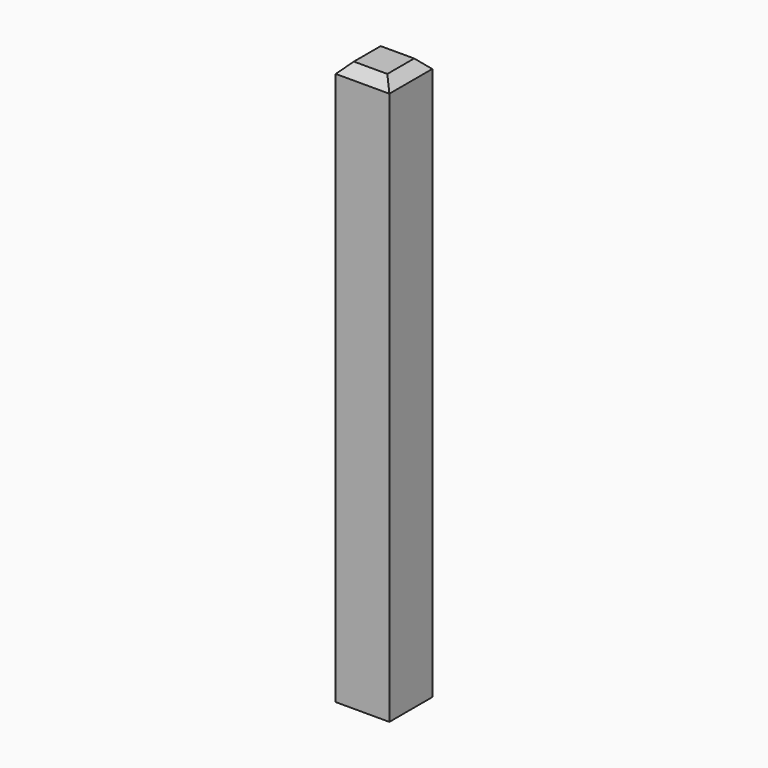
from build123d import *

# Parameters (mm, degrees)
F0_W     = 101.6
F0_H     = 101.6
F1_DEPTH = 1066.8
F2_SIZE  = 19.05


with BuildPart() as f1:
    # F0 (on Top) → F1 (new body)
    with BuildSketch(Plane.XY):
        Rectangle(F0_W, F0_H)
    extrude(amount=F1_DEPTH)

    # F2
    f2_edges = [f1.edges().sort_by_distance(p)[0] for p in [
        (0, -50.8, 1066.8),
        (-50.8, 0, 1066.8),
        (50.8, 0, 1066.8),
        (0, 50.8, 1066.8),
    ]]
    chamfer(f2_edges, length=F2_SIZE)


solid = f1.part
